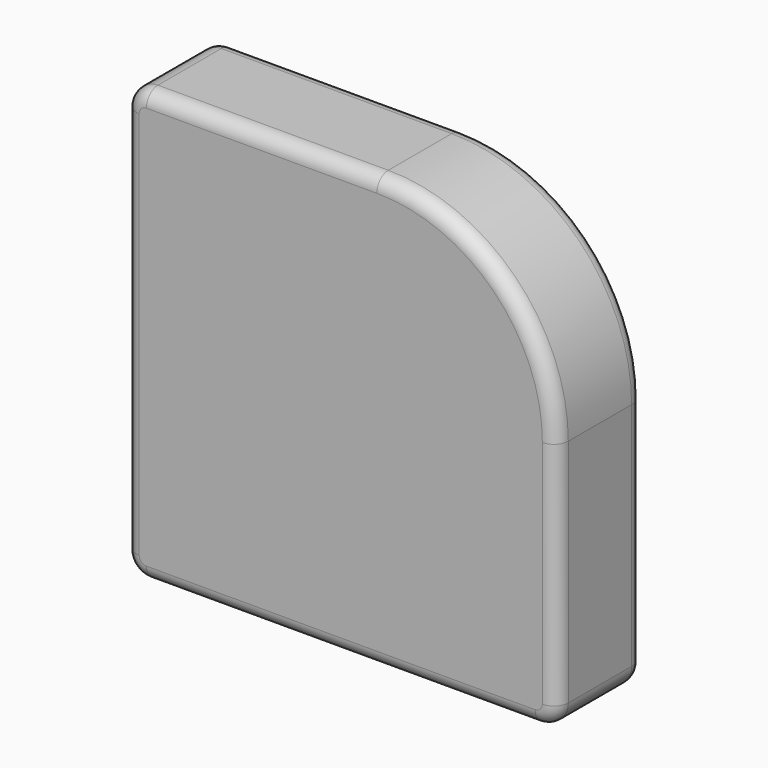
from build123d import *

# Parameters (mm, degrees)
F1_DEPTH = 15
F2_R     = 2
F3_R     = 2


with BuildPart() as f1:
    # F0 (on Front) → F1 (new body)
    with BuildSketch(Plane.XZ):
        with BuildLine():
            Line((-57, 0), (-3, 0))
            ThreePointArc((-3, 0), (-0.87868, 0.87868), (0, 3))
            Line((0, 3), (0, 35))
            ThreePointArc((0, 35), (-7.32233, 52.67767), (-25, 60))
            Line((-25, 60), (-57, 60))
            ThreePointArc((-57, 60), (-59.12132, 59.12132), (-60, 57))
            Line((-60, 57), (-60, 3))
            ThreePointArc((-60, 3), (-59.12132, 0.87868), (-57, 0))
        make_face()
    extrude(amount=F1_DEPTH)

    # F2
    f2_edges = [f1.edges().sort_by_distance(p)[0] for p in [
        (-30, -15, 0),
        (-0.87868, -15, 0.87868),
        (0, -15, 19),
        (-7.32233, -15, 52.67767),
        (-41, -15, 60),
        (-59.12132, -15, 59.12132),
        (-60, -15, 30),
        (-59.12132, -15, 0.87868),
    ]]
    fillet(f2_edges, radius=F2_R)

    # F3
    f3_edges = [f1.edges().sort_by_distance(p)[0] for p in [
        (-41, 0, 60),
    ]]
    fillet(f3_edges, radius=F3_R)


solid = f1.part
